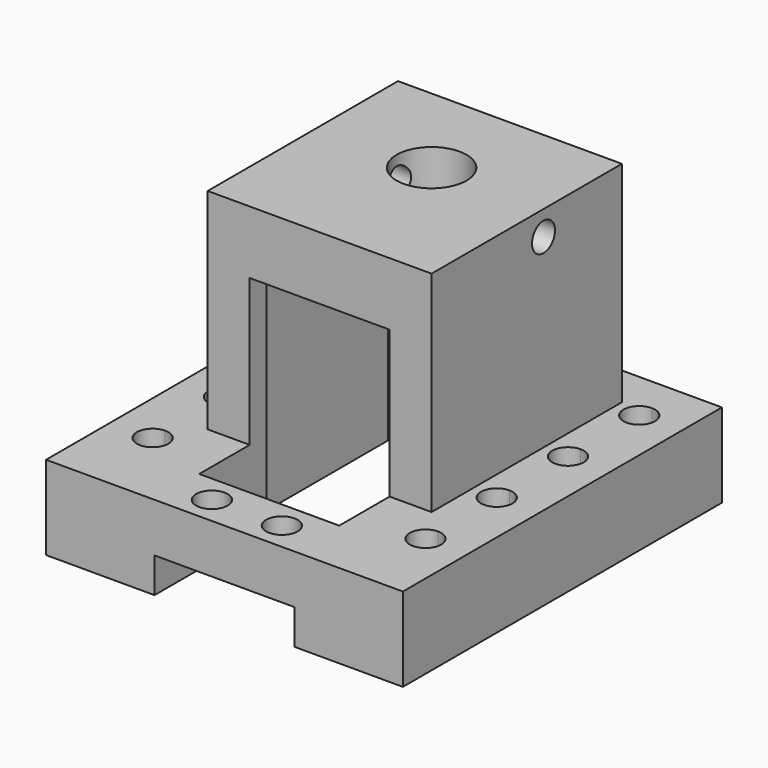
from build123d import *

# Parameters (mm, degrees)
F0_W      = 20
F0_H      = 8
F1_DEPTH  = 12
F2_DEPTH  = 5
F3_DEPTH  = 5
F5_DEPTH  = 2
F4_R      = 2.25
F6_DEPTH  = 25
F8_DEPTH  = 2
F7_R      = 2.25
F9_DEPTH  = 25
F11_DEPTH = 30
F12_W     = 6
F12_H     = 30
F13_DEPTH = 4
F14_W     = 6
F14_H     = 30
F15_DEPTH = 4
F16_W     = 32
F16_H     = 47
F17_DEPTH = 9
F18_R     = 5
F18_R_2   = 2.5
F19_DEPTH = 7
F20_DEPTH = 25
F21_R     = 2.05
F22_DEPTH = 58
F23_DEPTH = 13
F24_DEPTH = 2


with BuildPart() as f1:
    # F0 (on Top) → F1 (new body)
    with BuildSketch(Plane.XY):
        with Locations((25.5, -4)):
            Rectangle(F0_W, F0_H)
        with Locations((25.5, -51)):
            Rectangle(F0_W, F0_H)
        with BuildLine():
            Line((6, 0), (0, 0))
            Line((0, 0), (0, -55))
            Line((0, -55), (6, -55))
            Line((6, -55), (6, -45.71))
            ThreePointArc((6, -45.71), (3.75, -43.46), (6, -41.21))
            Line((6, -41.21), (6, -32.98))
            ThreePointArc((6, -32.98), (3.75, -30.73), (6, -28.48))
            Line((6, -28.48), (6, -20.25))
            ThreePointArc((6, -20.25), (3.75, -18), (6, -15.75))
            Line((6, -15.75), (6, -7.52))
            ThreePointArc((6, -7.52), (3.75, -5.27), (6, -3.02))
            Line((6, -3.02), (6, 0))
        make_face()
        with BuildLine():
            Line((51, 0), (45, 0))
            Line((45, 0), (45, -3.02))
            ThreePointArc((45, -3.02), (46.5909902577, -3.6790097423), (47.25, -5.27))
            ThreePointArc((47.25, -5.27), (46.5909902577, -6.8609902577), (45, -7.52))
            Line((45, -7.52), (45, -15.75))
            ThreePointArc((45, -15.75), (46.5909902577, -16.4090097423), (47.25, -18))
            ThreePointArc((47.25, -18), (46.5909902577, -19.5909902577), (45, -20.25))
            Line((45, -20.25), (45, -28.48))
            ThreePointArc((45, -28.48), (46.5909902577, -29.1390097423), (47.25, -30.73))
            ThreePointArc((47.25, -30.73), (46.5909902577, -32.3209902577), (45, -32.98))
            Line((45, -32.98), (45, -41.21))
            ThreePointArc((45, -41.21), (46.5909902577, -41.8690097423), (47.25, -43.46))
            ThreePointArc((47.25, -43.46), (46.5909902577, -45.0509902577), (45, -45.71))
            Line((45, -45.71), (45, -55))
            Line((45, -55), (51, -55))
            Line((51, -55), (51, 0))
        make_face()
        with BuildLine():
            Line((15.5, 0), (6, 0))
            Line((6, 0), (6, -3.02))
            ThreePointArc((6, -3.02), (7.5909902577, -3.6790097423), (8.25, -5.27))
            ThreePointArc((8.25, -5.27), (7.5909902577, -6.8609902577), (6, -7.52))
            Line((6, -7.52), (6, -15.75))
            ThreePointArc((6, -15.75), (7.5909902577, -16.4090097423), (8.25, -18))
            ThreePointArc((8.25, -18), (7.5909902577, -19.5909902577), (6, -20.25))
            Line((6, -20.25), (6, -28.48))
            ThreePointArc((6, -28.48), (7.5909902577, -29.1390097423), (8.25, -30.73))
            ThreePointArc((8.25, -30.73), (7.5909902577, -32.3209902577), (6, -32.98))
            Line((6, -32.98), (6, -41.21))
            ThreePointArc((6, -41.21), (7.5909902577, -41.8690097423), (8.25, -43.46))
            ThreePointArc((8.25, -43.46), (7.5909902577, -45.0509902577), (6, -45.71))
            Line((6, -45.71), (6, -55))
            Line((6, -55), (15.5, -55))
            Line((15.5, -55), (15.5, -47))
            Line((15.5, -47), (15.5, -35))
            Line((15.5, -35), (12.5, -35))
            Line((12.5, -35), (12.5, -9.5))
            Line((12.5, -9.5), (15.5, -9.5))
            Line((15.5, -9.5), (15.5, -8))
            Line((15.5, -8), (15.5, 0))
        make_face()
        with BuildLine():
            Line((45, 0), (35.5, 0))
            Line((35.5, 0), (35.5, -8))
            Line((35.5, -8), (35.5, -9.5))
            Line((35.5, -9.5), (38.5, -9.5))
            Line((38.5, -9.5), (38.5, -35))
            Line((38.5, -35), (35.5, -35))
            Line((35.5, -35), (35.5, -47))
            Line((35.5, -47), (35.5, -55))
            Line((35.5, -55), (45, -55))
            Line((45, -55), (45, -45.71))
            ThreePointArc((45, -45.71), (42.75, -43.46), (45, -41.21))
            Line((45, -41.21), (45, -32.98))
            ThreePointArc((45, -32.98), (42.75, -30.73), (45, -28.48))
            Line((45, -28.48), (45, -20.25))
            ThreePointArc((45, -20.25), (42.75, -18), (45, -15.75))
            Line((45, -15.75), (45, -7.52))
            ThreePointArc((45, -7.52), (42.75, -5.27), (45, -3.02))
            Line((45, -3.02), (45, 0))
        make_face()
    extrude(amount=F1_DEPTH)

    # F0 (on Top) → F2 (cut)
    with BuildSketch(Plane.XY):
        with Locations((25.5, -51)):
            Rectangle(F0_W, F0_H)
    extrude(amount=F2_DEPTH, mode=Mode.SUBTRACT)

    # F0 (on Top) → F3 (cut)
    with BuildSketch(Plane.XY):
        with Locations((25.5, -4)):
            Rectangle(F0_W, F0_H)
    extrude(amount=F3_DEPTH, mode=Mode.SUBTRACT)

    # F4 (on face) → F5 (cut)
    with BuildSketch(Plane(origin=(0, 0, 5), x_dir=(1, 0, 0), z_dir=(0, 0, -1))):
        Polygon((24.5, 47), (25.5, 47), (26.5, 47), (26.5, 52), (24.5, 52), align=None)
    extrude(amount=-F5_DEPTH, mode=Mode.SUBTRACT)

    # F4 (on face) → F6 (cut)
    with BuildSketch(Plane(origin=(0, 0, 5), x_dir=(1, 0, 0), z_dir=(0, 0, -1))):
        with Locations((20.5, 51)):
            Circle(F4_R)
        with Locations((30.5, 51)):
            Circle(F4_R)
    extrude(amount=-F6_DEPTH, mode=Mode.SUBTRACT)

    # F7 (on face) → F8 (cut)
    with BuildSketch(Plane(origin=(0, 0, 5), x_dir=(1, 0, 0), z_dir=(0, 0, -1))):
        Polygon((26.5, 8), (25.5, 8), (24.5, 8), (24.5, 3), (26.5, 3), align=None)
    extrude(amount=-F8_DEPTH, mode=Mode.SUBTRACT)

    # F7 (on face) → F9 (cut)
    with BuildSketch(Plane(origin=(0, 0, 5), x_dir=(1, 0, 0), z_dir=(0, 0, -1))):
        with Locations((30.5, 4)):
            Circle(F7_R)
        with Locations((20.5, 4)):
            Circle(F7_R)
    extrude(amount=-F9_DEPTH, mode=Mode.SUBTRACT)

    # F10 (on face) → F11 (join)
    with BuildSketch(Plane.XY.offset(12)):
        Polygon((41.5, -55), (41.5, 0), (35.5, 0), (35.5, -8), (35.5, -9.5), (38.5, -9.5), (38.5, -35), (35.5, -35), (35.5, -47), (35.5, -55), align=None)
        Polygon((15.5, -8), (15.5, 0), (9.5, 0), (9.5, -55), (15.5, -55), (15.5, -47), (15.5, -35), (12.5, -35), (12.5, -9.5), (15.5, -9.5), align=None)
    extrude(amount=F11_DEPTH)

    # F12 (on face) → F13 (cut)
    with BuildSketch(Plane(origin=(0, 0, 0), x_dir=(-1, 0, 0), z_dir=(0, 1, 0))):
        with Locations((-38.5, 27)):
            Rectangle(F12_W, F12_H)
        with Locations((-12.5, 27)):
            Rectangle(F12_W, F12_H)
    extrude(amount=-F13_DEPTH, mode=Mode.SUBTRACT)

    # F14 (on face) → F15 (cut)
    with BuildSketch(Plane.XZ.offset(55)):
        with Locations((12.5, 27)):
            Rectangle(F14_W, F14_H)
        with Locations((38.5, 27)):
            Rectangle(F14_W, F14_H)
    extrude(amount=-F15_DEPTH, mode=Mode.SUBTRACT)

    # F16 (on face) → F17 (join)
    with BuildSketch(Plane.XY.offset(42)):
        with Locations((25.5, -27.5)):
            Rectangle(F16_W, F16_H)
    extrude(amount=-F17_DEPTH)

    # F18 (on face) → F19 (cut)
    with BuildSketch(Plane.XY.offset(42)):
        with Locations((25.5, -18)):
            Circle(F18_R)
        with Locations((25.5, -18)):
            Circle(F18_R_2, mode=Mode.SUBTRACT)
    extrude(amount=-F19_DEPTH, mode=Mode.SUBTRACT)

    # F20 (cut): a face of the model
    f20_faces = [f1.faces().sort_by_distance(p)[0] for p in [
        (25.5, -18, 42),
    ]]
    extrude(f20_faces, amount=-F20_DEPTH, mode=Mode.SUBTRACT)

    # F21 (on face) → F22 (cut)
    with BuildSketch(Plane.YZ.offset(41.5)):
        with Locations((-18, 38.5)):
            Circle(F21_R)
    extrude(amount=-F22_DEPTH, mode=Mode.SUBTRACT)

    # F23 (cut): a face of the model
    f23_faces = [f1.faces().sort_by_distance(p)[0] for p in [
        (41.061365756, -51, 27),
    ]]
    extrude(f23_faces, amount=-F23_DEPTH, mode=Mode.SUBTRACT)

    # F24 (add): a face of the model
    f24_faces = [f1.faces().sort_by_distance(p)[0] for p in [
        (25.5, 0, 6.68359375),
    ]]
    extrude(f24_faces, amount=F24_DEPTH)


solid = f1.part
